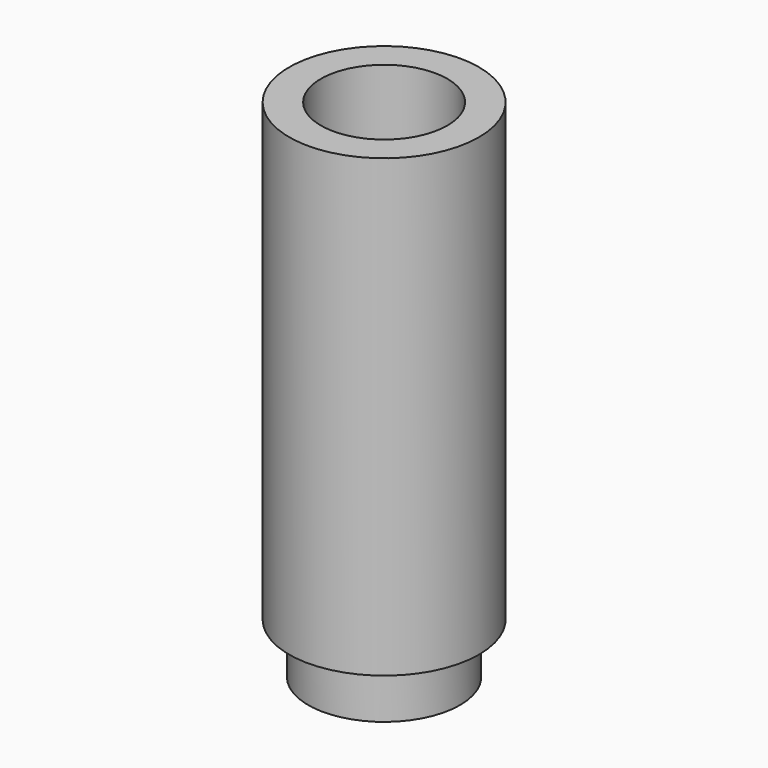
from build123d import *

# Parameters (mm, degrees)
F1_R     = 19.05
F1_R_2   = 12.7
F2_DEPTH = 101.6
F3_R     = 19.05
F3_R_2   = 15.24
F4_DEPTH = 10.16


with BuildPart() as f2:
    # F1 (on face) → F2 (new body)
    with BuildSketch(Plane.XY):
        Circle(F1_R)
        Circle(F1_R_2, mode=Mode.SUBTRACT)
    extrude(amount=F2_DEPTH)

    # F3 (on face) → F4 (cut)
    with BuildSketch(Plane.XY):
        Circle(F3_R)
        Circle(F3_R_2, mode=Mode.SUBTRACT)
    extrude(amount=F4_DEPTH, mode=Mode.SUBTRACT)


solid = f2.part
